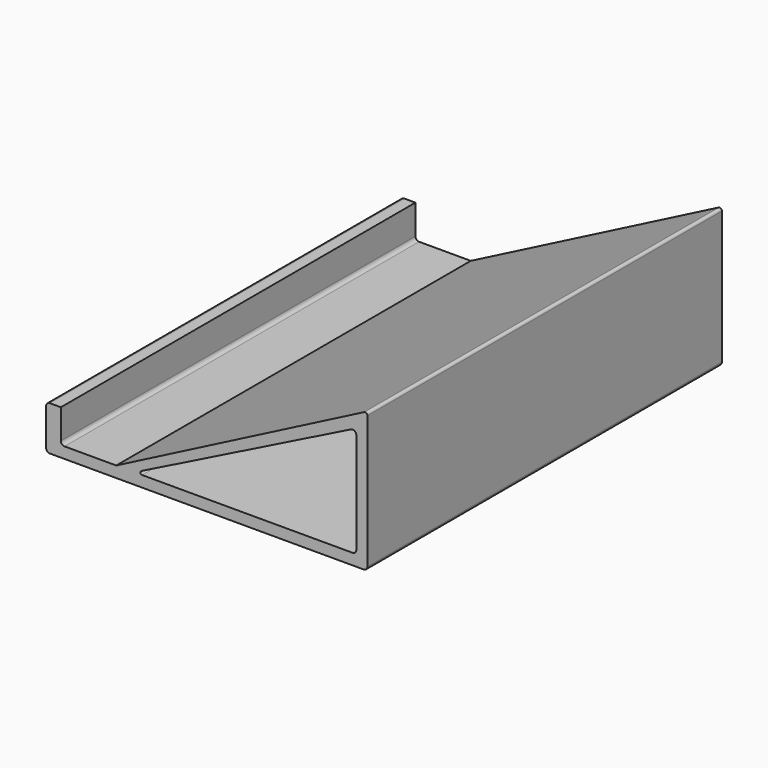
from build123d import *

# Parameters (mm, degrees)
PAD_DEPTH = 120


with BuildPart() as part:
    # Sketch → Pad (new body)
    with BuildSketch(Plane.XZ):
        with BuildLine():
            Line((63, 34), (63, -2))
            ThreePointArc((62, -3), (62.707107, -2.707107), (63, -2))
            Line((-23, -3), (62, -3))
            ThreePointArc((-24, -2), (-23.707107, -2.707107), (-23, -3))
            Line((-24, 8), (-24, -2))
            ThreePointArc((-23, 9), (-23.707107, 8.707107), (-24, 8))
            Line((-20, 9), (-23, 9))
            Line((-20, 1), (-20, 9))
            ThreePointArc((-20, 1), (-19.707107, 0.292893), (-19, 0))
            Line((-19, 0), (-5, 0))
            Line((62.110864, 34.542357), (-5, 0))
            ThreePointArc((63, 34), (62.707665, 34.520748), (62.110864, 34.542357))
        make_face()
        with BuildLine():
            Line((2, 0), (59, 0))
            ThreePointArc((59, 0), (59.707107, 0.292893), (60, 1))
            Line((60, 1), (60, 28.381966))
            ThreePointArc((60, 28.381966), (59.525731, 29.232617), (58.552786, 29.276393))
            Line((58.552786, 29.276393), (1.788854, 0.894427))
            ThreePointArc((1.788854, 0.894427), (1.540494, 0.363661), (2, 0))
        make_face(mode=Mode.SUBTRACT)
    extrude(amount=PAD_DEPTH)


solid = part.part
